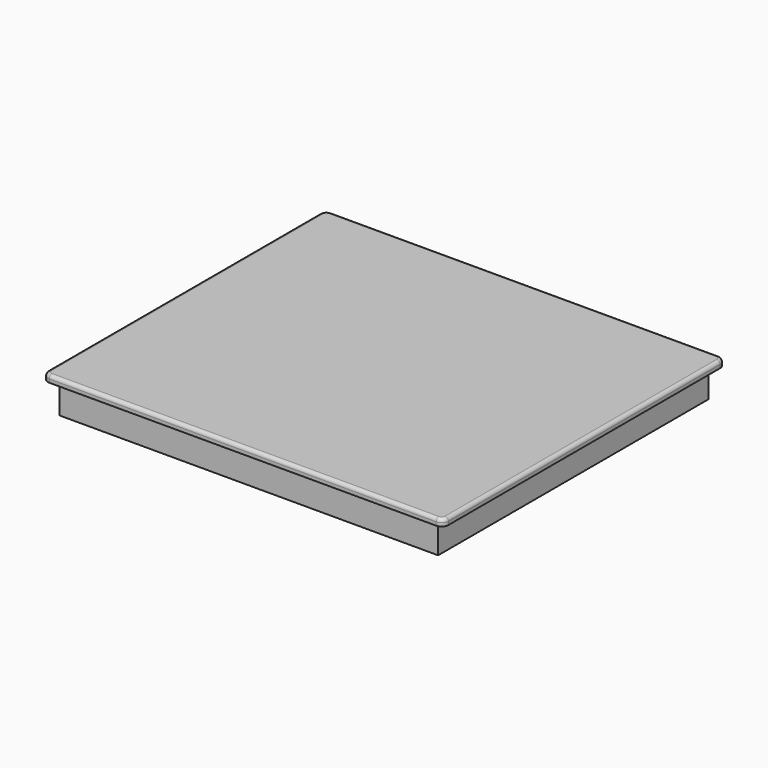
from build123d import *

# Parameters (mm, degrees)
F0_W     = 560
F0_H     = 500
F1_DEPTH = 55
F2_DEPTH = 10
F3_R     = 5


with BuildPart() as f1:
    # F0 (on Top) → F1 (new body)
    with BuildSketch(Plane.XY):
        Rectangle(F0_W, F0_H)
    extrude(amount=-F1_DEPTH)

    # F0 (on Top) → F2 (join)
    with BuildSketch(Plane.XY):
        with BuildLine():
            Line((286, 261), (-286, 261))
            ThreePointArc((-286, 261), (-293.071068, 258.071068), (-296, 251))
            Line((-296, 251), (-296, -251))
            ThreePointArc((-296, -251), (-293.071068, -258.071068), (-286, -261))
            Line((-286, -261), (286, -261))
            ThreePointArc((286, -261), (293.071068, -258.071068), (296, -251))
            Line((296, -251), (296, 251))
            ThreePointArc((296, 251), (293.071068, 258.071068), (286, 261))
        make_face()
        Rectangle(F0_W, F0_H, mode=Mode.SUBTRACT)
        Rectangle(F0_W, F0_H)
    extrude(amount=-F2_DEPTH)

    # F3
    f3_edges = [f1.edges().sort_by_distance(p)[0] for p in [
        (0, 261, 0),
        (-293.071068, 258.071068, 0),
        (-296, 0, 0),
        (-293.071068, -258.071068, 0),
        (0, -261, 0),
        (293.071068, -258.071068, 0),
        (296, 0, 0),
        (293.071068, 258.071068, 0),
    ]]
    fillet(f3_edges, radius=F3_R)


solid = f1.part
